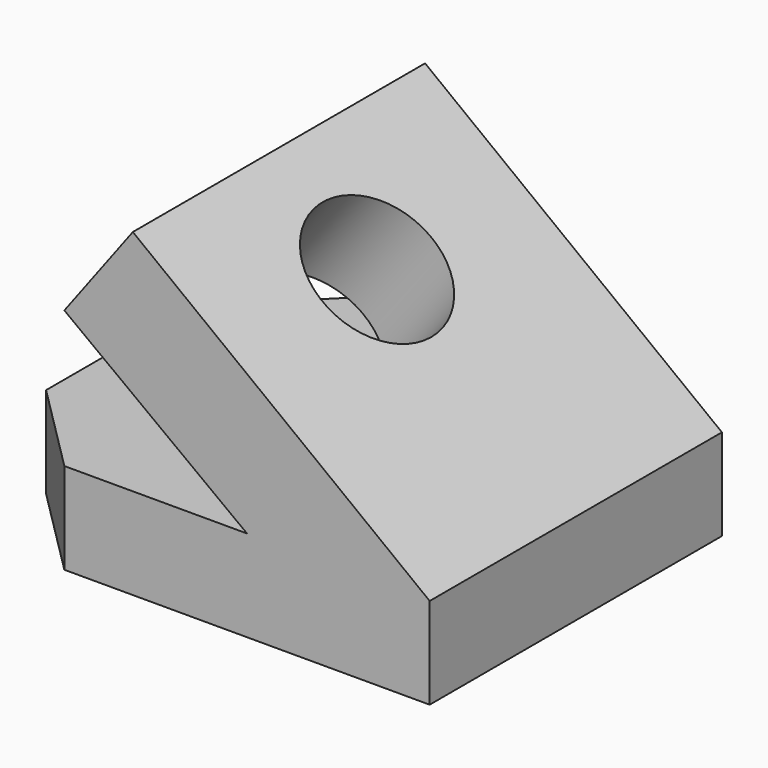
from build123d import *

# Parameters (mm, degrees)
F1_DEPTH = 101.6
F2_R     = 38.1
F3_DEPTH = 74.422
F5_DEPTH = 72.136


with BuildPart() as f1:
    # F0 (on Front) → F1 (new body, symmetric)
    with BuildSketch(Plane.XZ):
        Polygon((0, 50.8), (0, 0), (254, 0), (254, 50.8), (88.9, 177.8), (50.8, 127), (152.4, 50.8), (76.2, 50.8), align=None)
    extrude(amount=F1_DEPTH, both=True)

    # F2 (on face) → F3 (cut)
    with BuildSketch(Plane(origin=(118.9739776952, 0, 154.6661710037), x_dir=(0.7926239891, 0, -0.6097107608), z_dir=(0.6097107608, 0, 0.7926239891))):
        with Locations((30.880294776, 0)):
            Circle(F2_R)
    extrude(amount=-F3_DEPTH, mode=Mode.SUBTRACT)

    # F4 (on face) → F5 (cut)
    with BuildSketch(Plane(origin=(0, 0, 0), x_dir=(1, 0, 0), z_dir=(0, 0, -1))):
        Polygon((0, -50.8), (0, -101.6), (50.8, -101.6), align=None)
        Polygon((0, 101.6), (0, 50.8), (50.8, 101.6), align=None)
    extrude(amount=-F5_DEPTH, mode=Mode.SUBTRACT)


solid = f1.part
